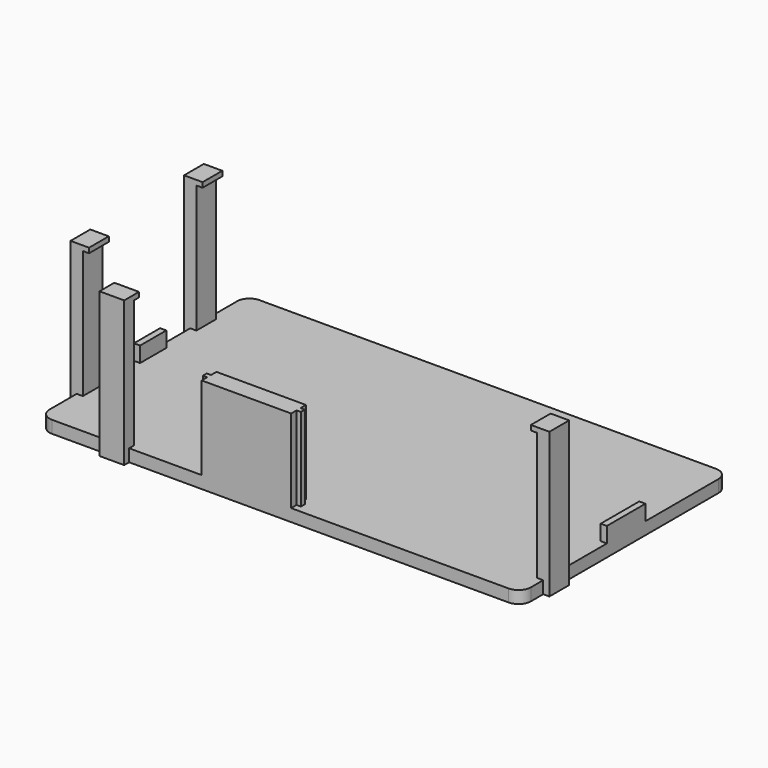
from build123d import *

# Parameters (mm, degrees)
F0_W      = 78
F0_H      = 42
F1_DEPTH  = 2
F2_W      = 2
F2_H      = 4
F2_W_2    = 4
F2_H_2    = 2
F3_DEPTH  = 23.5
F5_DEPTH  = 13.5
F6_W      = 1
F6_H      = 5.3
F6_H_2    = 7.8
F7_DEPTH  = 2.5
F8_R      = 2
F9_W      = 4
F9_H      = 0.8
F10_DEPTH = 1
F11_W     = 4
F11_H     = 0.8
F12_DEPTH = 1
F13_W     = 4
F13_H     = 0.8
F14_DEPTH = 1
F15_W     = 4
F15_H     = 0.8
F16_DEPTH = 1


with BuildPart() as f1:
    # F0 (on Top) → F1 (new body)
    with BuildSketch(Plane.XY):
        with Locations((39, 21)):
            Rectangle(F0_W, F0_H)
    extrude(amount=F1_DEPTH)

    # F2 (on face) → F3 (join)
    with BuildSketch(Plane(origin=(0, 0, 0), x_dir=(1, 0, 0), z_dir=(0, 0, -1))):
        with Locations((0, -32.5)):
            Rectangle(F2_W, F2_H)
        with Locations((12.5, 0)):
            Rectangle(F2_W_2, F2_H_2)
        with Locations((78, -6.5)):
            Rectangle(F2_W, F2_H)
        with Locations((0, -9.5)):
            Rectangle(F2_W, F2_H)
    extrude(amount=-F3_DEPTH)

    # F4 (on face) → F5 (join)
    with BuildSketch(Plane.XY.offset(2)):
        Polygon((26.25, 0), (40.75, 0), (40.75, 1.1), (41.45, 1.1), (41.45, 1.9), (40.75, 1.9), (40.75, 3), (26.25, 3), (26.25, 1.9), (25.55, 1.9), (25.55, 1.1), (26.25, 1.1), align=None)
    extrude(amount=F5_DEPTH)

    # F6 (on face) → F7 (join)
    with BuildSketch(Plane.XY.offset(2)):
        with Locations((0.5, 21.75)):
            Rectangle(F6_W, F6_H)
        with Locations((77.5, 21.3)):
            Rectangle(F6_W, F6_H_2)
    extrude(amount=F7_DEPTH)

    # F8
    f8_edges = [f1.edges().sort_by_distance(p)[0] for p in [
        (78, 42, 1),
        (78, 0, 1),
        (0, 42, 1),
        (0, 0, 1),
    ]]
    fillet(f8_edges, radius=F8_R)

    # F9 (on face) → F10 (join)
    with BuildSketch(Plane(origin=(0, 1, 0), x_dir=(-1, 0, 0), z_dir=(0, 1, 0))):
        with Locations((-12.5, 23.1)):
            Rectangle(F9_W, F9_H)
    extrude(amount=F10_DEPTH)

    # F11 (on face) → F12 (join)
    with BuildSketch(Plane(origin=(77, 0, 0), x_dir=(0, -1, 0), z_dir=(-1, 0, 0))):
        with Locations((-6.5, 23.1)):
            Rectangle(F11_W, F11_H)
    extrude(amount=F12_DEPTH)

    # F13 (on face) → F14 (join)
    with BuildSketch(Plane.YZ.offset(1)):
        with Locations((32.5, 23.1)):
            Rectangle(F13_W, F13_H)
    extrude(amount=F14_DEPTH)

    # F15 (on face) → F16 (join)
    with BuildSketch(Plane.YZ.offset(1)):
        with Locations((9.5, 23.1)):
            Rectangle(F15_W, F15_H)
    extrude(amount=F16_DEPTH)


solid = f1.part
